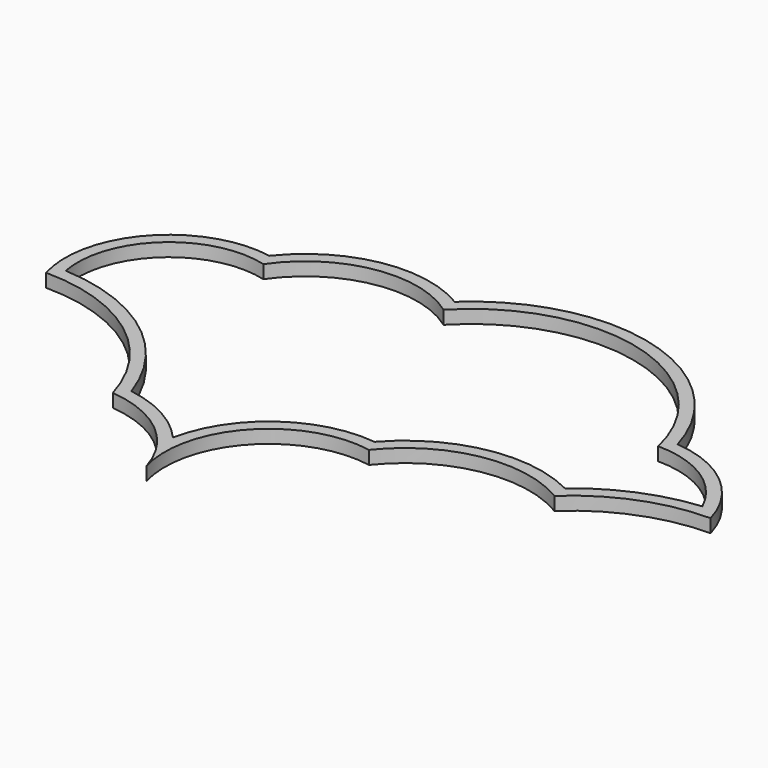
from build123d import *

# Parameters (mm, degrees)
PAD_DEPTH = 1.6


with BuildPart() as part:
    # Sketch → Pad (new body)
    with BuildSketch(Plane.XY):
        with BuildLine():
            ThreePointArc((28.180802, 9.808205), (13.613929, 24.235706), (-6.303954, 19.375204))
            ThreePointArc((-6.303954, 19.375204), (-16.710147, 21.253139), (-25.769512, 15.799387))
            ThreePointArc((-25.769512, 15.799387), (-37.287949, 11.865644), (-40, 0))
            ThreePointArc((-19.819198, -15.191795), (-27.370121, -4.222451), (-40, 0))
            ThreePointArc((-8.038434, -24.865429), (-12.432827, -18.206764), (-19.819198, -15.191795))
            ThreePointArc((6.230488, -9.200613), (-5.240972, -13.082492), (-8.038434, -24.865429))
            ThreePointArc((25.696046, -5.624796), (15.289853, -3.746861), (6.230488, -9.200613))
            ThreePointArc((40, 0), (32.314926, -1.456724), (25.696046, -5.624796))
            ThreePointArc((40, 0), (35.621137, 6.748689), (28.180802, 9.808205))
        make_face()
        with BuildLine():
            ThreePointArc((-25.14228, 14.122309), (-35.472766, 11.572036), (-38.810792, 1.468551))
            ThreePointArc((-18.675961, -13.821187), (-26.392811, -3.080893), (-38.810792, 1.468551))
            ThreePointArc((-9.72633, -18.745392), (-13.769068, -15.497999), (-18.675961, -13.821187))
            ThreePointArc((5.618325, -7.593849), (-4.230442, -10.174814), (-9.72633, -18.745392))
            ThreePointArc((25.494301, -3.800154), (14.906517, -2.292583), (5.618325, -7.593849))
            ThreePointArc((37.889878, 1.400834), (31.294602, -0.252324), (25.494301, -3.800154))
            ThreePointArc((37.889878, 1.400834), (33.464455, 6.469882), (27.006338, 8.359943))
            ThreePointArc((27.006338, 8.359943), (13.164593, 22.803643), (-6.112904, 17.456446))
            ThreePointArc((-6.112904, 17.456446), (-16.329844, 19.797437), (-25.14228, 14.122309))
        make_face(mode=Mode.SUBTRACT)
    extrude(amount=PAD_DEPTH)


solid = part.part
